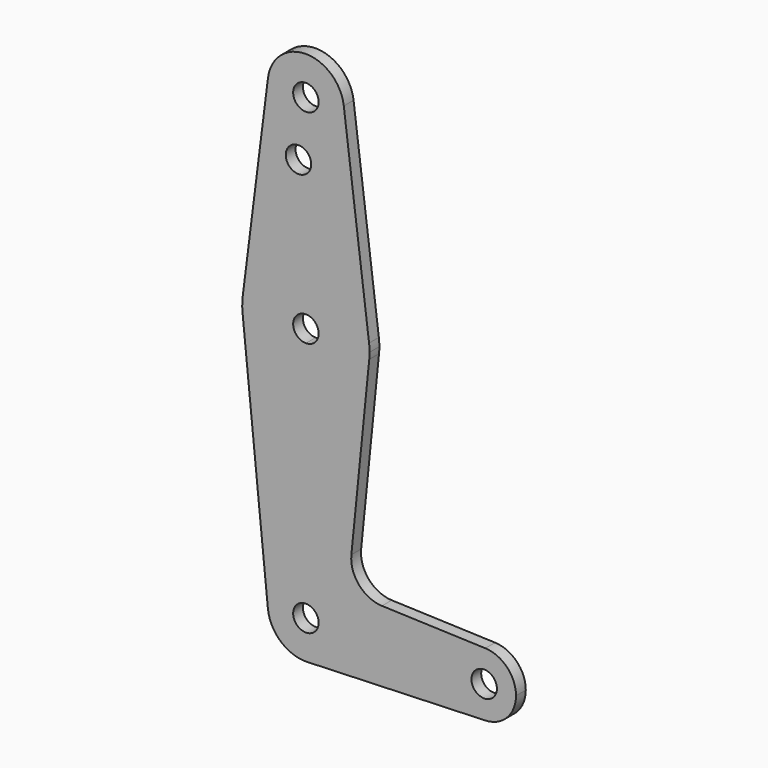
from build123d import *

# Parameters (mm, degrees)
F0_R     = 3.175
F1_DEPTH = 3.048


with BuildPart() as f1:
    # F0 (on Front) → F1 (new body)
    with BuildSketch(Plane.XZ):
        with BuildLine():
            ThreePointArc((-21.60557, 67.593512), (-12.752211, 56.896987), (-2.631145, 66.40286))
            ThreePointArc((-2.631145, 66.40286), (-2.649842, 66.999357), (-2.705859, 67.593512))
            ThreePointArc((-2.705859, 67.593512), (-12.155714, 75.927429), (-21.60557, 67.593512))
        make_face()
        with Locations((-12.155714, 66.40286)):
            Circle(F0_R, mode=Mode.SUBTRACT)
        with BuildLine():
            ThreePointArc((-2.705859, 67.593512), (-2.649842, 66.999357), (-2.631145, 66.40286))
            ThreePointArc((-2.631145, 66.40286), (-12.752211, 56.896987), (-21.60557, 67.593512))
            Line((-21.60557, 67.593512), (-27.906186, 17.587368))
            ThreePointArc((-27.906186, 17.587368), (-12.155714, 31.477859), (3.594757, 17.587368))
            Line((3.594757, 17.587368), (-2.705859, 67.593512))
        make_face()
        with Locations((-13.997326, 52.128059)):
            Circle(F0_R, mode=Mode.SUBTRACT)
        with BuildLine():
            ThreePointArc((-8.980714, 15.602859), (-14.400778, 17.847923), (-12.155714, 12.427859))
            ThreePointArc((-12.155714, 12.427859), (-9.91065, 13.357795), (-8.980714, 15.602859))
        make_face()
        with BuildLine():
            ThreePointArc((3.719286, 15.602859), (3.688123, 16.597065), (3.594757, 17.587368))
            ThreePointArc((3.594757, 17.587368), (-12.155714, 31.477859), (-27.906186, 17.587368))
            ThreePointArc((-27.906186, 17.587368), (-28.029458, 15.802578), (-27.951129, 14.015251))
            ThreePointArc((-27.951129, 14.015251), (-22.804948, 3.829607), (-12.155714, -0.272141))
            ThreePointArc((-12.155714, -0.272141), (-1.506481, 3.829607), (3.6397, 14.015251))
            ThreePointArc((3.6397, 14.015251), (3.699377, 14.808058), (3.719286, 15.602859))
        make_face()
        with BuildLine():
            ThreePointArc((-8.980714, 15.602859), (-9.91065, 13.357795), (-12.155714, 12.427859))
            ThreePointArc((-12.155714, 12.427859), (-14.400778, 17.847923), (-8.980714, 15.602859))
        make_face(mode=Mode.SUBTRACT)
        with BuildLine():
            ThreePointArc((-12.155714, -0.272141), (-22.804948, 3.829607), (-27.951129, 14.015251))
            Line((-27.951129, 14.015251), (-21.632535, -48.849663))
            ThreePointArc((-21.632535, -48.849663), (-19.219346, -41.50789), (-12.155714, -38.372572))
            Line((-12.155714, -38.372572), (-12.155714, -0.272141))
        make_face()
        with BuildLine():
            Line((-0.815097, -30.306382), (3.6397, 14.015251))
            ThreePointArc((3.6397, 14.015251), (-1.506481, 3.829607), (-12.155714, -0.272141))
            Line((-12.155714, -0.272141), (-12.155714, -38.372572))
            ThreePointArc((-12.155714, -38.372572), (-5.420827, -41.162254), (-2.631145, -47.897141))
            ThreePointArc((-2.631145, -47.897141), (-5.301214, -54.510253), (-11.814394, -57.415593))
            Line((-11.814394, -57.415593), (32.578522, -55.823718))
            ThreePointArc((32.578522, -55.823718), (24.362614, -47.897141), (32.578522, -39.970565))
            Line((32.578522, -39.970565), (6.810346, -39.04655))
            ThreePointArc((6.810346, -39.04655), (1.104576, -36.328075), (-0.815097, -30.306382))
        make_face()
        with BuildLine():
            ThreePointArc((-8.980714, -47.897141), (-9.91065, -45.652077), (-12.155714, -44.722141))
            ThreePointArc((-12.155714, -44.722141), (-14.400778, -50.142205), (-8.980714, -47.897141))
        make_face()
        with BuildLine():
            ThreePointArc((-12.155714, -38.372572), (-19.219346, -41.50789), (-21.632535, -48.849663))
            ThreePointArc((-21.632535, -48.849663), (-18.417354, -55.074139), (-11.814394, -57.415593))
            ThreePointArc((-11.814394, -57.415593), (-5.301214, -54.510253), (-2.631145, -47.897141))
            ThreePointArc((-2.631145, -47.897141), (-5.420827, -41.162254), (-12.155714, -38.372572))
        make_face()
        with BuildLine():
            ThreePointArc((-8.980714, -47.897141), (-14.400778, -50.142205), (-12.155714, -44.722141))
            ThreePointArc((-12.155714, -44.722141), (-9.91065, -45.652077), (-8.980714, -47.897141))
        make_face(mode=Mode.SUBTRACT)
        with BuildLine():
            ThreePointArc((32.578522, -39.970565), (24.362614, -47.897141), (32.578522, -55.823718))
            ThreePointArc((32.578522, -55.823718), (38.002431, -53.40427), (40.225956, -47.897141))
            ThreePointArc((40.225956, -47.897141), (38.002431, -42.390013), (32.578522, -39.970565))
        make_face()
        with Locations((32.294285, -47.897141)):
            Circle(F0_R, mode=Mode.SUBTRACT)
    extrude(amount=F1_DEPTH)


solid = f1.part
